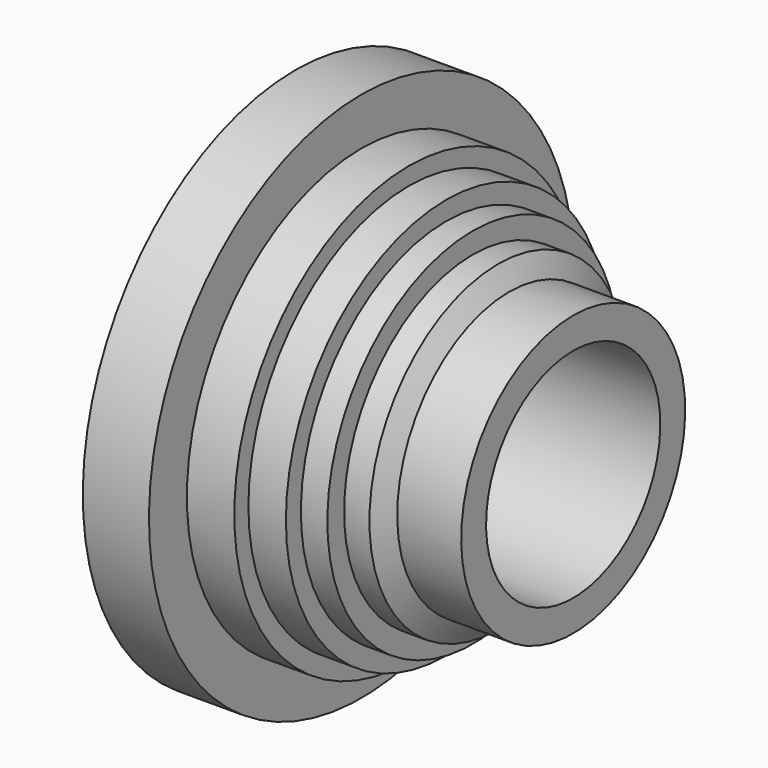
from build123d import *


with BuildPart() as f1:
    # F0 (on Front) → F1 (revolve)
    with BuildSketch(Plane.XZ):
        Polygon((0, 22.97428), (0, 29.538576), (-13.490058, 29.538576), (-15.81593, 33.957731), (-21.165436, 33.957731), (-21.165436, 38.37689), (-26.74753, 38.37689), (-26.74753, 42.330872), (-34.655496, 42.330872), (-34.655496, 46.052266), (-44.656746, 46.052266), (-44.656746, 56.053516), (-58.611978, 56.053516), (-58.611978, 40.470175), (-52.099537, 25.584593), (-58.065969, 22.97428), align=None)
    revolve(axis=Axis((-37.44654, 0, 0), (-1, 0, 0)))


solid = f1.part
